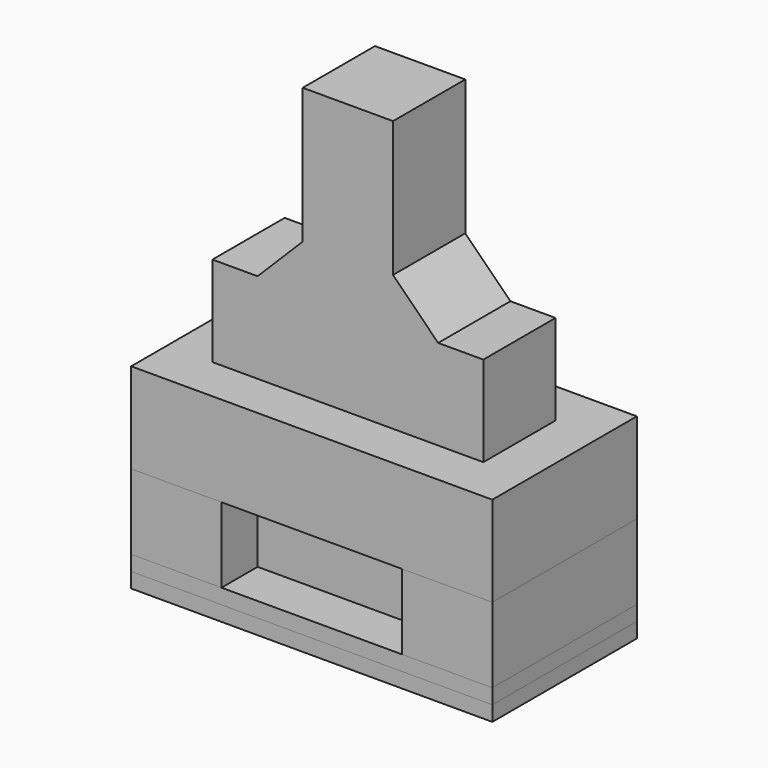
from build123d import *

# Parameters (mm, degrees)
F1_DEPTH  = 30
F0_W      = 60
F0_H      = 15
F2_DEPTH  = 5
F3_DEPTH  = 30
F5_DEPTH  = 30
F6_W      = 90
F6_H      = 30
F7_DEPTH  = 30
F8_W      = 30
F8_H      = 30
F9_DEPTH  = 60
F10_SIZE  = 15
F11_DEPTH = 5
F12_W     = 90
F12_H     = 30
F13_DEPTH = 30


with BuildPart() as f1:
    # F0 (on Top) → F1 (new body)
    with BuildSketch(Plane.XY):
        Polygon((45, -15), (45, 15), (30, 15), (-30, 15), (-45, 15), (-45, -15), (-30, -15), (30, -15), align=None)
    extrude(amount=F1_DEPTH)


with BuildPart() as f2:
    # F0 (on Top) → F2 (new body)
    with BuildSketch(Plane.XY):
        Polygon((-45, 15), (-30, 15), (-30, 30), (-60, 30), (-60, -30), (-30, -30), (-30, -15), (-45, -15), align=None)
        with Locations((0, -22.5)):
            Rectangle(F0_W, F0_H)
        Polygon((30, 15), (45, 15), (45, -15), (30, -15), (30, -30), (60, -30), (60, 30), (30, 30), align=None)
        with Locations((0, 22.5)):
            Rectangle(F0_W, F0_H)
    extrude(amount=-F2_DEPTH)


with BuildPart() as f3:
    # F0 (on Top) → F3 (new body)
    with BuildSketch(Plane.XY):
        Polygon((30, 15), (45, 15), (45, -15), (30, -15), (30, -30), (60, -30), (60, 30), (30, 30), align=None)
    extrude(amount=F3_DEPTH)


with BuildPart() as f3b:
    # F0 (on Top) → F3, piece 2 (new body)
    with BuildSketch(Plane.XY):
        Polygon((-45, 15), (-30, 15), (-30, 30), (-60, 30), (-60, -30), (-30, -30), (-30, -15), (-45, -15), align=None)
    extrude(amount=F3_DEPTH)


with BuildPart() as f5:
    # F4 (on face) → F5 (new body)
    with BuildSketch(Plane.XY.offset(30)):
        Polygon((-30, 30), (-60, 30), (-60, -30), (-30, -30), (-30, -15), (-45, -15), (-45, 15), (-30, 15), align=None)
        Polygon((60, 30), (-30, 30), (-30, 15), (45, 15), (45, -15), (-30, -15), (-30, -30), (60, -30), align=None)
    extrude(amount=F5_DEPTH)


with BuildPart() as f7:
    # F6 (on face) → F7 (new body)
    with BuildSketch(Plane.XY.offset(60)):
        Rectangle(F6_W, F6_H)
    extrude(amount=F7_DEPTH)

    # F8 (on face) → F9 (join)
    with BuildSketch(Plane.XY.offset(90)):
        Rectangle(F8_W, F8_H)
    extrude(amount=F9_DEPTH)

    # F10
    f10_edges = [f7.edges().sort_by_distance(p)[0] for p in [
        (15, 0, 90),
        (-15, 0, 90),
    ]]
    chamfer(f10_edges, length=F10_SIZE)


with BuildPart() as f11:
    # F0 (on Top) → F11 (new body)
    with BuildSketch(Plane.XY):
        Polygon((-45, 15), (-30, 15), (-30, 30), (-60, 30), (-60, -30), (-30, -30), (-30, -15), (-45, -15), align=None)
        with Locations((0, 22.5)):
            Rectangle(F0_W, F0_H)
        Polygon((30, 15), (45, 15), (45, -15), (30, -15), (30, -30), (60, -30), (60, 30), (30, 30), align=None)
        with Locations((0, -22.5)):
            Rectangle(F0_W, F0_H)
        Polygon((45, -15), (45, 15), (30, 15), (-30, 15), (-45, 15), (-45, -15), (-30, -15), (30, -15), align=None)
    extrude(amount=F11_DEPTH)

    # F12 (on face) → F13 (join)
    with BuildSketch(Plane.XY.offset(5)):
        Rectangle(F12_W, F12_H)
    extrude(amount=F13_DEPTH)


solid = Compound([f1.part, f2.part, f3.part, f3b.part, f5.part, f7.part, f11.part])
